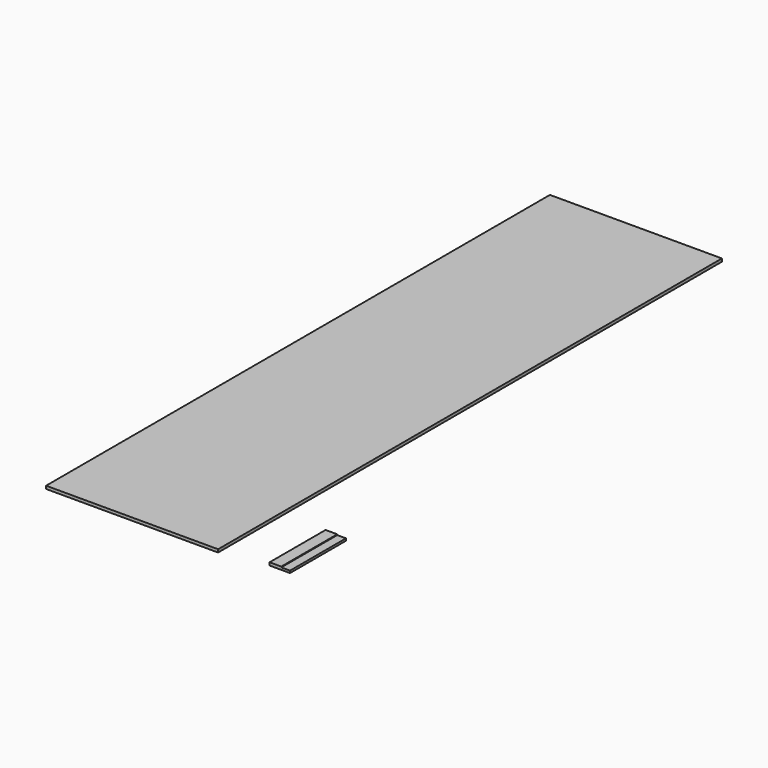
from build123d import *

# Parameters (mm, degrees)
F0_W     = 749.3
F0_H     = 2743.2
F1_DEPTH = 12.7
F2_W     = 88.9
F2_H     = 304.8
F3_DEPTH = 12.7
F4_W     = 38.1
F4_H     = 304.8
F5_DEPTH = 3.175


with BuildPart() as f1:
    # F0 (on Top) → F1 (new body)
    with BuildSketch(Plane.XY):
        with Locations((-871.972486, 1337.126257)):
            Rectangle(F0_W, F0_H)
    extrude(amount=F1_DEPTH)


with BuildPart() as f3:
    # F2 (on Top) → F3 (new body)
    with BuildSketch(Plane.XY):
        with Locations((-256.158695, 152.4)):
            Rectangle(F2_W, F2_H)
    extrude(amount=F3_DEPTH)

    # F4 (on face) → F5 (cut)
    with BuildSketch(Plane.XY.offset(12.7)):
        with Locations((-230.758695, 152.4)):
            Rectangle(F4_W, F4_H)
    extrude(amount=-F5_DEPTH, mode=Mode.SUBTRACT)


solid = Compound([f1.part, f3.part])
